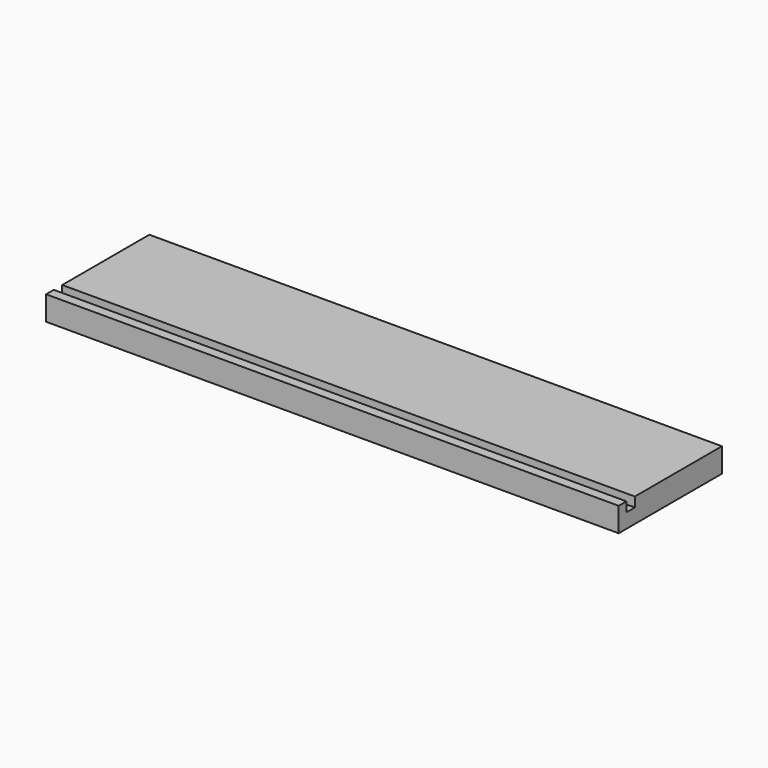
from build123d import *

# Parameters (mm, degrees)
SKETCH_W          = 355
SKETCH_H          = 80
PAD_DEPTH         = 15
SKETCH001_W       = 6.5
SKETCH001_H       = 6
POCKET_DEPTH      = 177.501
POCKET_DEPTH_BACK = -177.501


with BuildPart() as part:
    # Sketch → Pad (new body)
    with BuildSketch(Plane.XY):
        Rectangle(SKETCH_W, SKETCH_H)
    extrude(amount=PAD_DEPTH)

    # Sketch001 → Pocket (cut, two sides)
    with BuildSketch(Plane.YZ) as pocket_sk:
        with Locations((-30.75, 12)):
            Rectangle(SKETCH001_W, SKETCH001_H)
    extrude(amount=-POCKET_DEPTH, mode=Mode.SUBTRACT)
    extrude(pocket_sk.sketch, amount=-POCKET_DEPTH_BACK, mode=Mode.SUBTRACT)


solid = part.part
